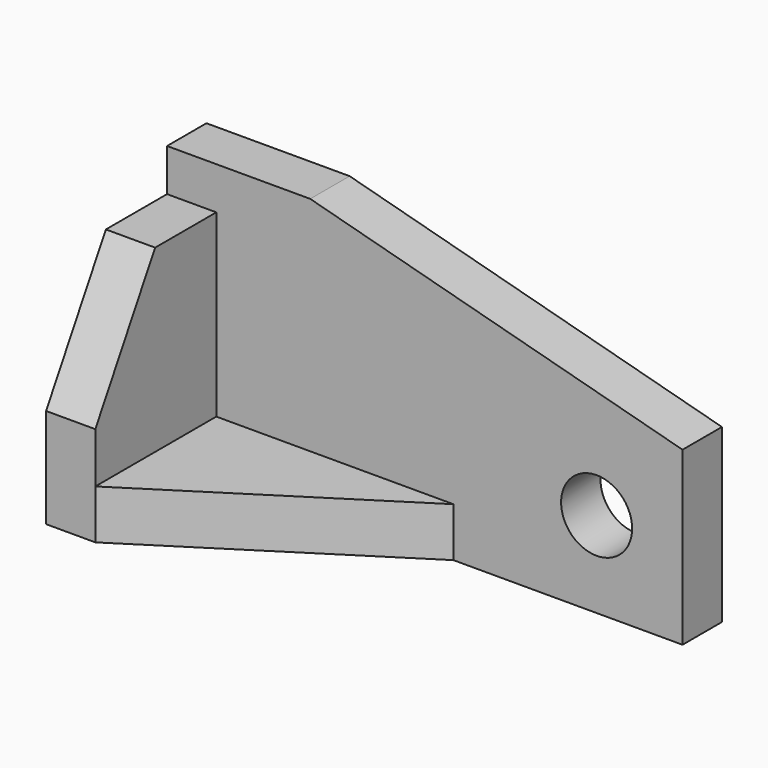
from build123d import *

# Parameters (mm, degrees)
F0_R     = 7.874
F1_DEPTH = 10.922
F3_DEPTH = 10.922
F5_DEPTH = 10.922


with BuildPart() as f1:
    # F0 (on Front) → F1 (new body)
    with BuildSketch(Plane.XZ):
        Polygon((-10.922, 0), (0, 0), (103.378, 0), (103.378, 38.078794), (20.828, 60.198), (-10.922, 60.198), align=None)
        with Locations((84.328, 19.05)):
            Circle(F0_R, mode=Mode.SUBTRACT)
    extrude(amount=-F1_DEPTH)

    # F2 (on Right) → F3 (join)
    with BuildSketch(Plane.YZ):
        Polygon((-33.528, 0), (0, 0), (0, 50.8), (-16.956893, 50.8), (-33.528, 22.098), align=None)
    extrude(amount=-F3_DEPTH)

    # F4 (on Top) → F5 (join)
    with BuildSketch(Plane.XY):
        Polygon((52.578, 0), (0, 0), (0, -33.528), align=None)
    extrude(amount=F5_DEPTH)


solid = f1.part
